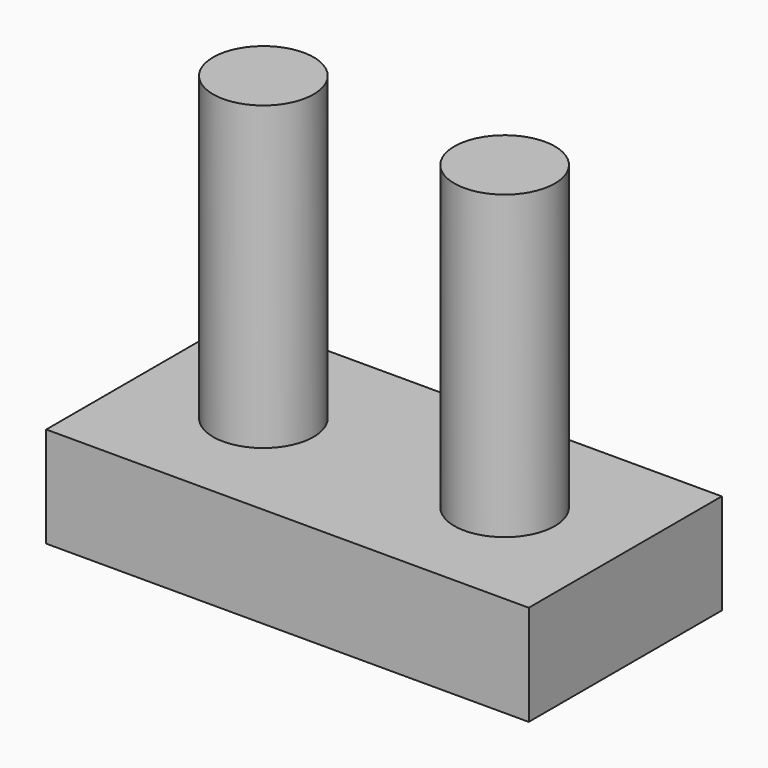
from build123d import *

# Parameters (mm, degrees)
F1_DEPTH = 2.5
F2_DEPTH = 7.5


with BuildPart() as f1:
    # F0 (on Top) → F1 (new body)
    with BuildSketch(Plane.XY):
        with BuildLine():
            Line((-4.25, 0), (-7.75, 0))
            ThreePointArc((-7.75, 0), (-9, -1.25), (-10.25, 0))
            Line((-10.25, 0), (-12, 0))
            Line((-12, 0), (-12, -3))
            Line((-12, -3), (0, -3))
            Line((0, -3), (0, 0))
            Line((0, 0), (-1.75, 0))
            ThreePointArc((-1.75, 0), (-3, -1.25), (-4.25, 0))
        make_face()
        with BuildLine():
            ThreePointArc((-10.25, 0), (-9, 1.25), (-7.75, 0))
            Line((-7.75, 0), (-4.25, 0))
            ThreePointArc((-4.25, 0), (-3, 1.25), (-1.75, 0))
            Line((-1.75, 0), (0, 0))
            Line((0, 0), (0, 3))
            Line((0, 3), (-12, 3))
            Line((-12, 3), (-12, 0))
            Line((-12, 0), (-10.25, 0))
        make_face()
        with BuildLine():
            ThreePointArc((-10.25, 0), (-9, -1.25), (-7.75, 0))
            Line((-7.75, 0), (-10.25, 0))
        make_face()
        with BuildLine():
            Line((-10.25, 0), (-7.75, 0))
            ThreePointArc((-7.75, 0), (-9, 1.25), (-10.25, 0))
        make_face()
        with BuildLine():
            Line((-1.75, 0), (-4.25, 0))
            ThreePointArc((-4.25, 0), (-3, -1.25), (-1.75, 0))
        make_face()
        with BuildLine():
            ThreePointArc((-1.75, 0), (-3, 1.25), (-4.25, 0))
            Line((-4.25, 0), (-1.75, 0))
        make_face()
    extrude(amount=-F1_DEPTH)

    # F0 (on Top) → F2 (join)
    with BuildSketch(Plane.XY):
        with BuildLine():
            Line((-10.25, 0), (-7.75, 0))
            ThreePointArc((-7.75, 0), (-9, 1.25), (-10.25, 0))
        make_face()
        with BuildLine():
            ThreePointArc((-10.25, 0), (-9, -1.25), (-7.75, 0))
            Line((-7.75, 0), (-10.25, 0))
        make_face()
        with BuildLine():
            Line((-1.75, 0), (-4.25, 0))
            ThreePointArc((-4.25, 0), (-3, -1.25), (-1.75, 0))
        make_face()
        with BuildLine():
            ThreePointArc((-1.75, 0), (-3, 1.25), (-4.25, 0))
            Line((-4.25, 0), (-1.75, 0))
        make_face()
    extrude(amount=F2_DEPTH)


solid = f1.part
